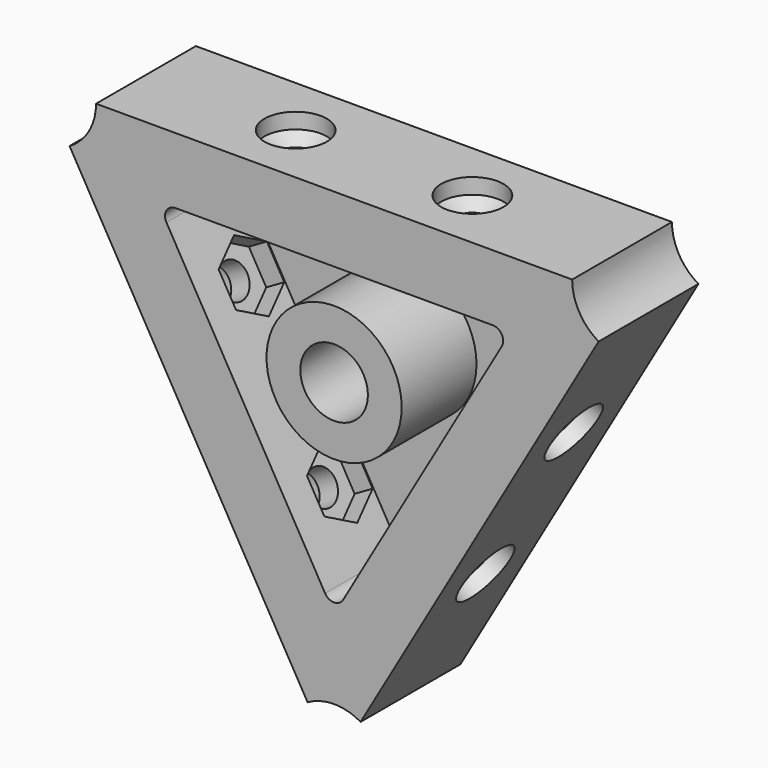
from build123d import *

# Parameters (mm, degrees)
F1_DEPTH  = 12
F0_R      = 6.5
F0_R_2    = 3.25
F2_DEPTH  = 3
F4_START  = -4.35
F4_DEPTH  = 3.65
F5_D      = 3.3
F5_DEPTH  = 8
F5_TIP    = 0.9914200214
F6_D      = 6
F6_DEPTH  = 1.5
F6_TIP    = 1.8025818571
F8_START  = -4.35
F8_DEPTH  = 3.65
F9_D      = 6
F9_DEPTH  = 1.5
F9_TIP    = 1.8025818571
F10_D     = 3.3
F10_DEPTH = 8
F10_START = 2.3111618
F10_TIP   = 0.9914200214
F12_START = -4.35
F12_DEPTH = 3.65
F13_D     = 3.3
F13_DEPTH = 8
F13_TIP   = 0.9914200214
F14_D     = 6
F14_DEPTH = 1.5
F14_TIP   = 1.8025818571


with BuildPart() as f1:
    # F0 (on Front) → F1 (new body)
    with BuildSketch(Plane.XZ):
        with BuildLine():
            ThreePointArc((25.45, 11.749077978), (23.5832704407, 13.6158075373), (22.9, 16.1658075373))
            Line((22.9, 16.1658075373), (-22.9, 16.1658075373))
            ThreePointArc((-22.9, 16.1658075373), (-23.5832704407, 13.6158075373), (-25.45, 11.749077978))
            Line((-25.45, 11.749077978), (-2.55, -27.9148855153))
            ThreePointArc((-2.55, -27.9148855153), (0, -27.2316150746), (2.55, -27.9148855153))
            Line((2.55, -27.9148855153), (25.45, 11.749077978))
        make_face()
        with BuildLine():
            ThreePointArc((15.2679491924, 9.8149545762), (16.1339745962, 9.3149545762), (16.1339745962, 8.3149545762))
            Line((16.1339745962, 8.3149545762), (0.8660254038, -18.1299091524))
            ThreePointArc((0.8660254038, -18.1299091524), (0, -18.6299091524), (-0.8660254038, -18.1299091524))
            Line((-0.8660254038, -18.1299091524), (-16.1339745962, 8.3149545762))
            ThreePointArc((-16.1339745962, 8.3149545762), (-16.1339745962, 9.3149545762), (-15.2679491924, 9.8149545762))
            Line((-15.2679491924, 9.8149545762), (15.2679491924, 9.8149545762))
        make_face(mode=Mode.SUBTRACT)
    extrude(amount=F1_DEPTH)



with BuildPart() as f1b:
    # F0 (on Front) → F1, piece 2 (new body)
    with BuildSketch(Plane.XZ):
        Circle(F0_R)
        Circle(F0_R_2, mode=Mode.SUBTRACT)
    extrude(amount=F1_DEPTH)


with BuildPart() as f1_1:
    add(f1.part)

    add(f1b.part)  # F2 merges F1b
    # F0 (on Front) → F2 (join)
    with BuildSketch(Plane.XZ):
        with BuildLine():
            Line((0.8660254038, -18.1299091524), (16.1339745962, 8.3149545762))
            ThreePointArc((16.1339745962, 8.3149545762), (16.1339745962, 9.3149545762), (15.2679491924, 9.8149545762))
            Line((15.2679491924, 9.8149545762), (-15.2679491924, 9.8149545762))
            ThreePointArc((-15.2679491924, 9.8149545762), (-16.1339745962, 9.3149545762), (-16.1339745962, 8.3149545762))
            Line((-16.1339745962, 8.3149545762), (-0.8660254038, -18.1299091524))
            ThreePointArc((-0.8660254038, -18.1299091524), (0, -18.6299091524), (0.8660254038, -18.1299091524))
        make_face()
        Circle(F0_R, mode=Mode.SUBTRACT)
    extrude(amount=F2_DEPTH)

    # F3 (on face) → F4 (cut)
    with BuildSketch(Plane.XY.offset(16.1658075373).offset(F4_START)):
        Polygon((-6.8256842194, -8.9), (-5.1513684387, -6), (-6.8256842194, -3.1), (-10.1743157806, -3.1), (-11.8486315613, -6), (-10.1743157806, -8.9), align=None)
        Polygon((10.1743157806, -8.9), (11.8486315613, -6), (10.1743157806, -3.1), (6.8256842194, -3.1), (5.1513684387, -6), (6.8256842194, -8.9), align=None)
    extrude(amount=-F4_DEPTH, mode=Mode.SUBTRACT)

    # F5
    with Locations(Plane.XY.offset(16.1658075373)):
        with Locations((8.5, -6), (-8.5, -6)):
            Hole(F5_D / 2, depth=F5_DEPTH)
            with Locations((0, 0, -(F5_DEPTH + F5_TIP / 2))):  # 118° drill point
                Cone(0, F5_D / 2, F5_TIP, mode=Mode.SUBTRACT)

    # F6
    with Locations(Plane.XY.offset(16.1658075373)):
        with Locations((8.5, -6), (-8.5, -6)):
            Hole(F6_D / 2, depth=F6_DEPTH)
            with Locations((0, 0, -(F6_DEPTH + F6_TIP / 2))):  # 118° drill point
                Cone(0, F6_D / 2, F6_TIP, mode=Mode.SUBTRACT)

    # F7 (on face) → F8 (cut)
    with BuildSketch(Plane(origin=(-14, 0, -8.0829037687), x_dir=(0, -1, 0), z_dir=(-0.8660254038, 0, -0.5)).offset(F8_START)):
        Polygon((3.1, 6.8256842194), (6, 5.1513684387), (8.9, 6.8256842194), (8.9, 10.1743157806), (6, 11.8486315613), (3.1, 10.1743157806), align=None)
        Polygon((3.1, -10.1743157806), (6, -11.8486315613), (8.9, -10.1743157806), (8.9, -6.8256842194), (6, -5.1513684387), (3.1, -6.8256842194), align=None)
    extrude(amount=-F8_DEPTH, mode=Mode.SUBTRACT)

    # F9
    with Locations(Plane(origin=(-14, 0, -8.0829037687), x_dir=(0, -1, 0), z_dir=(-0.8660254038, 0, -0.5))):
        with Locations((6, 8.5), (6, -8.5)):
            Hole(F9_D / 2, depth=F9_DEPTH)
            with Locations((0, 0, -(F9_DEPTH + F9_TIP / 2))):  # 118° drill point
                Cone(0, F9_D / 2, F9_TIP, mode=Mode.SUBTRACT)

    # F10
    # its depths count from where the whole tool has entered the part; down to there all is cleared
    with Locations(Plane(origin=(-14, 0, -8.0829037687), x_dir=(0, -1, 0), z_dir=(-0.8660254038, 0, -0.5)).offset(-F10_START)):
        with Locations((6, 8.5), (6, -8.5)):
            Hole(F10_D / 2, depth=F10_DEPTH)
            with Locations((0, 0, -(F10_DEPTH + F10_TIP / 2))):  # 118° drill point
                Cone(0, F10_D / 2, F10_TIP, mode=Mode.SUBTRACT)

    # F11 (on face) → F12 (cut)
    with BuildSketch(Plane(origin=(14, 0, -8.0829037687), x_dir=(0, 1, 0), z_dir=(0.8660254038, 0, -0.5)).offset(F12_START)):
        Polygon((-3.1, -6.8256842194), (-6, -5.1513684387), (-8.9, -6.8256842194), (-8.9, -10.1743157806), (-6, -11.8486315613), (-3.1, -10.1743157806), align=None)
        Polygon((-3.1, 6.8256842194), (-3.1, 10.1743157806), (-6, 11.8486315613), (-8.9, 10.1743157806), (-8.9, 6.8256842194), (-6, 5.1513684387), align=None)
    extrude(amount=-F12_DEPTH, mode=Mode.SUBTRACT)

    # F13
    with Locations(Plane(origin=(14, 0, -8.0829037687), x_dir=(0, 1, 0), z_dir=(0.8660254038, 0, -0.5))):
        with Locations((-6, -8.5), (-6, 8.5)):
            Hole(F13_D / 2, depth=F13_DEPTH)
            with Locations((0, 0, -(F13_DEPTH + F13_TIP / 2))):  # 118° drill point
                Cone(0, F13_D / 2, F13_TIP, mode=Mode.SUBTRACT)

    # F14
    with Locations(Plane(origin=(14, 0, -8.0829037687), x_dir=(0, 1, 0), z_dir=(0.8660254038, 0, -0.5))):
        with Locations((-6, -8.5), (-6, 8.5)):
            Hole(F14_D / 2, depth=F14_DEPTH)
            with Locations((0, 0, -(F14_DEPTH + F14_TIP / 2))):  # 118° drill point
                Cone(0, F14_D / 2, F14_TIP, mode=Mode.SUBTRACT)


solid = f1_1.part
